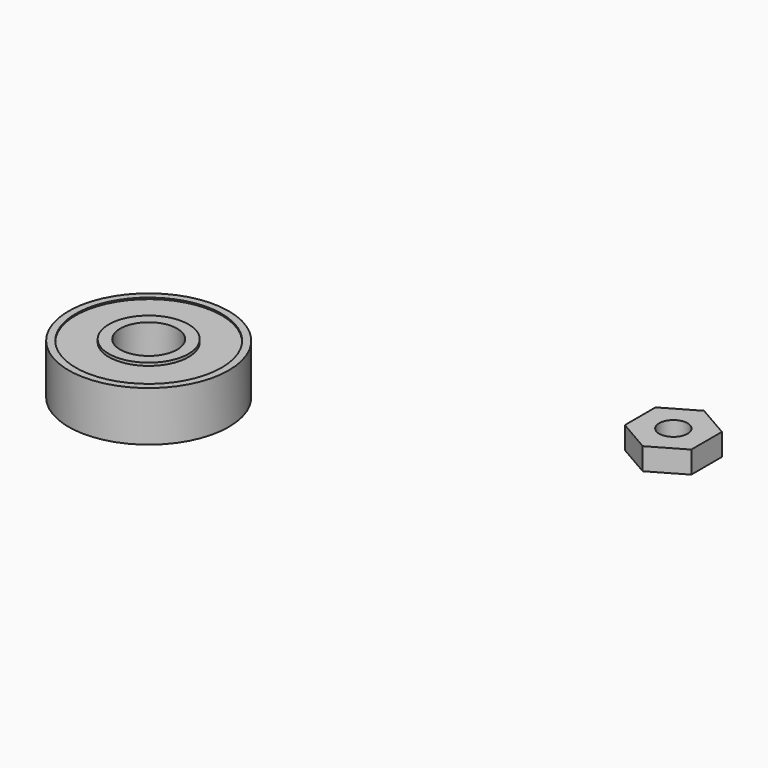
from build123d import *

# Parameters (mm, degrees)
F0_R          = 2
F1_DEPTH      = 3.1
F2_R          = 11.25
F2_R_2        = 10.25
F3_DEPTH      = 7
F4_START      = 0.2
F2_R_3        = 5.6
F4_DEPTH      = 6.6
F2_R_4        = 4
F5_DEPTH      = 7.2
F5_DEPTH_BACK = 0.2


with BuildPart() as f1:
    # F0 (on Top) → F1 (new body)
    with BuildSketch(Plane.XY):
        Polygon((4.66, -2.6904522544), (4.66, 2.6904522544), (0, 5.3809045088), (-4.66, 2.6904522544), (-4.66, -2.6904522544), (0, -5.3809045088), align=None)
        Circle(F0_R, mode=Mode.SUBTRACT)
    extrude(amount=F1_DEPTH)


with BuildPart() as f3:
    # F2 (on Top) → F3 (new body)
    with BuildSketch(Plane.XY):
        with Locations((-53.2503739734, -25.5143474787)):
            Circle(F2_R)
        with Locations((-53.2503739734, -25.5143474787)):
            Circle(F2_R_2, mode=Mode.SUBTRACT)
    extrude(amount=F3_DEPTH)

    # F2 (on Top) → F4 (join)
    with BuildSketch(Plane.XY.offset(F4_START)):
        with Locations((-53.2503739734, -25.5143474787)):
            Circle(F2_R_2)
        with Locations((-53.2503739734, -25.5143474787)):
            Circle(F2_R_3, mode=Mode.SUBTRACT)
    extrude(amount=F4_DEPTH)

    # F2 (on Top) → F5 (join, two sides)
    with BuildSketch(Plane.XY) as f5_sk:
        with Locations((-53.2503739734, -25.5143474787)):
            Circle(F2_R_3)
        with Locations((-53.2503739734, -25.5143474787)):
            Circle(F2_R_4, mode=Mode.SUBTRACT)
    extrude(amount=F5_DEPTH)
    extrude(f5_sk.sketch, amount=-F5_DEPTH_BACK)


solid = Compound([f1.part, f3.part])
